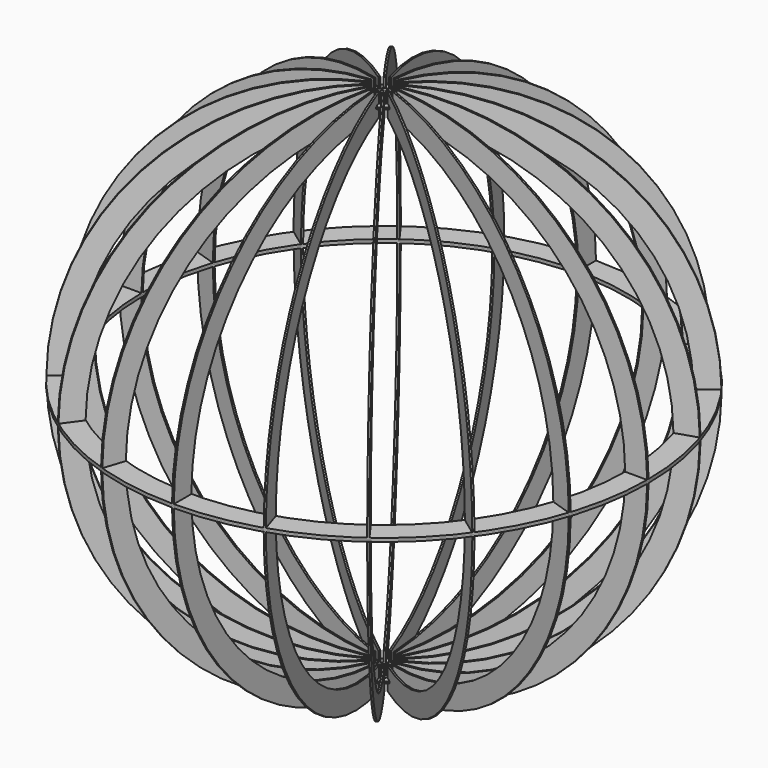
from build123d import *

# Parameters (mm, degrees)
F1_DEPTH = 2
F3_COUNT = 20
F4_R     = 600
F4_W     = 4
F4_H     = 20
F4_W_2   = 20
F4_H_2   = 4
F4_R_2   = 550
F5_DEPTH = 4
F7_DEPTH = 4


with BuildPart() as f1:
    # F0 (on Front) → F1 (new body, symmetric)
    with BuildSketch(Plane.XZ):
        with BuildLine():
            Line((-585, -4), (-599.986667, -4))
            ThreePointArc((-599.986667, -4), (-433.360475, -414.968311), (-30, -599.249531))
            Line((-30, -599.249531), (-30, -577.5))
            Line((-30, -577.5), (-40, -577.5))
            Line((-40, -577.5), (-40, -572.5))
            Line((-40, -572.5), (-30, -572.5))
            Line((-30, -572.5), (-30, -549.181209))
            ThreePointArc((-30, -549.181209), (-397.996758, -379.603188), (-549.985454, -4))
            Line((-549.985454, -4), (-565, -4))
            Line((-565, -4), (-565, -2))
            Line((-565, -2), (-585, -2))
            Line((-585, -2), (-585, -4))
        make_face()
    extrude(amount=F1_DEPTH, both=True)


with BuildPart() as f3_1:
    # F3: instance of F1
    add(f1.part.rotate(Axis((0, 0, -28.792143), (0, 0, 1)), 1 * 360 / F3_COUNT))


with BuildPart() as f3_2:
    # F3: instance of F1
    add(f1.part.rotate(Axis((0, 0, -28.792143), (0, 0, 1)), 2 * 360 / F3_COUNT))


with BuildPart() as f3_3:
    # F3: instance of F1
    add(f1.part.rotate(Axis((0, 0, -28.792143), (0, 0, 1)), 3 * 360 / F3_COUNT))


with BuildPart() as f3_4:
    # F3: instance of F1
    add(f1.part.rotate(Axis((0, 0, -28.792143), (0, 0, 1)), 4 * 360 / F3_COUNT))


with BuildPart() as f3_5:
    # F3: instance of F1
    add(f1.part.rotate(Axis((0, 0, -28.792143), (0, 0, 1)), 5 * 360 / F3_COUNT))


with BuildPart() as f3_6:
    # F3: instance of F1
    add(f1.part.rotate(Axis((0, 0, -28.792143), (0, 0, 1)), 6 * 360 / F3_COUNT))


with BuildPart() as f3_7:
    # F3: instance of F1
    add(f1.part.rotate(Axis((0, 0, -28.792143), (0, 0, 1)), 7 * 360 / F3_COUNT))


with BuildPart() as f3_8:
    # F3: instance of F1
    add(f1.part.rotate(Axis((0, 0, -28.792143), (0, 0, 1)), 8 * 360 / F3_COUNT))


with BuildPart() as f3_9:
    # F3: instance of F1
    add(f1.part.rotate(Axis((0, 0, -28.792143), (0, 0, 1)), 9 * 360 / F3_COUNT))


with BuildPart() as f3_10:
    # F3: instance of F1
    add(f1.part.rotate(Axis((0, 0, -28.792143), (0, 0, 1)), 10 * 360 / F3_COUNT))


with BuildPart() as f3_11:
    # F3: instance of F1
    add(f1.part.rotate(Axis((0, 0, -28.792143), (0, 0, 1)), 11 * 360 / F3_COUNT))


with BuildPart() as f3_12:
    # F3: instance of F1
    add(f1.part.rotate(Axis((0, 0, -28.792143), (0, 0, 1)), 12 * 360 / F3_COUNT))


with BuildPart() as f3_13:
    # F3: instance of F1
    add(f1.part.rotate(Axis((0, 0, -28.792143), (0, 0, 1)), 13 * 360 / F3_COUNT))


with BuildPart() as f3_14:
    # F3: instance of F1
    add(f1.part.rotate(Axis((0, 0, -28.792143), (0, 0, 1)), 14 * 360 / F3_COUNT))


with BuildPart() as f3_15:
    # F3: instance of F1
    add(f1.part.rotate(Axis((0, 0, -28.792143), (0, 0, 1)), 15 * 360 / F3_COUNT))


with BuildPart() as f3_16:
    # F3: instance of F1
    add(f1.part.rotate(Axis((0, 0, -28.792143), (0, 0, 1)), 16 * 360 / F3_COUNT))


with BuildPart() as f3_17:
    # F3: instance of F1
    add(f1.part.rotate(Axis((0, 0, -28.792143), (0, 0, 1)), 17 * 360 / F3_COUNT))


with BuildPart() as f3_18:
    # F3: instance of F1
    add(f1.part.rotate(Axis((0, 0, -28.792143), (0, 0, 1)), 18 * 360 / F3_COUNT))


with BuildPart() as f3_19:
    # F3: instance of F1
    add(f1.part.rotate(Axis((0, 0, -28.792143), (0, 0, 1)), 19 * 360 / F3_COUNT))


with BuildPart() as f5:
    # F4 (on Top) → F5 (new body)
    with BuildSketch(Plane.XY):
        Circle(F4_R)
        Polygon((-345.472407, -472.099371), (-333.716702, -455.919031), (-330.480634, -458.270172), (-342.236339, -474.450512), align=None, mode=Mode.SUBTRACT)
        Polygon((-474.450512, -342.236339), (-458.270172, -330.480634), (-455.919031, -333.716702), (-472.099371, -345.472407), align=None, mode=Mode.SUBTRACT)
        Polygon((-182.677055, -555.750028), (-176.496715, -536.728898), (-172.692489, -537.964966), (-178.872829, -556.986096), align=None, mode=Mode.SUBTRACT)
        Polygon((-556.986096, -178.872829), (-537.964966, -172.692489), (-536.728898, -176.496715), (-555.750028, -182.677055), align=None, mode=Mode.SUBTRACT)
        with Locations((0, -575)):
            Rectangle(F4_W, F4_H, mode=Mode.SUBTRACT)
        Polygon((178.872829, -556.986096), (172.692489, -537.964966), (176.496715, -536.728898), (182.677055, -555.750028), align=None, mode=Mode.SUBTRACT)
        Polygon((342.236339, -474.450512), (330.480634, -458.270172), (333.716702, -455.919031), (345.472407, -472.099371), align=None, mode=Mode.SUBTRACT)
        Polygon((472.099371, -345.472407), (455.919031, -333.716702), (458.270172, -330.480634), (474.450512, -342.236339), align=None, mode=Mode.SUBTRACT)
        Polygon((555.750028, -182.677055), (536.728898, -176.496715), (537.964966, -172.692489), (556.986096, -178.872829), align=None, mode=Mode.SUBTRACT)
        with Locations((-575, 0)):
            Rectangle(F4_W_2, F4_H_2, mode=Mode.SUBTRACT)
        Polygon((-555.750028, 182.677055), (-536.728898, 176.496715), (-537.964966, 172.692489), (-556.986096, 178.872829), align=None, mode=Mode.SUBTRACT)
        Polygon((-472.099371, 345.472407), (-455.919031, 333.716702), (-458.270172, 330.480634), (-474.450512, 342.236339), align=None, mode=Mode.SUBTRACT)
        Polygon((-342.236339, 474.450512), (-330.480634, 458.270172), (-333.716702, 455.919031), (-345.472407, 472.099371), align=None, mode=Mode.SUBTRACT)
        Polygon((-178.872829, 556.986096), (-172.692489, 537.964966), (-176.496715, 536.728898), (-182.677055, 555.750028), align=None, mode=Mode.SUBTRACT)
        Circle(F4_R_2, mode=Mode.SUBTRACT)
        with Locations((575, 0)):
            Rectangle(F4_W_2, F4_H_2, mode=Mode.SUBTRACT)
        Polygon((556.986096, 178.872829), (537.964966, 172.692489), (536.728898, 176.496715), (555.750028, 182.677055), align=None, mode=Mode.SUBTRACT)
        with Locations((0, 575)):
            Rectangle(F4_W, F4_H, mode=Mode.SUBTRACT)
        Polygon((182.677055, 555.750028), (176.496715, 536.728898), (172.692489, 537.964966), (178.872829, 556.986096), align=None, mode=Mode.SUBTRACT)
        Polygon((474.450512, 342.236339), (458.270172, 330.480634), (455.919031, 333.716702), (472.099371, 345.472407), align=None, mode=Mode.SUBTRACT)
        Polygon((345.472407, 472.099371), (333.716702, 455.919031), (330.480634, 458.270172), (342.236339, 474.450512), align=None, mode=Mode.SUBTRACT)
    extrude(amount=-F5_DEPTH)


with BuildPart() as f7:
    # F6 (on face) → F7 (new body)
    with BuildSketch(Plane(origin=(0, 0, -572.5), x_dir=(1, 0, 0), z_dir=(0, 0, -1))):
        Polygon((-33.53625, -21.893376), (-31.185109, -25.129444), (-23.094939, -19.251592), (-24.27051, -17.633558), (-25.44608, -16.015524), align=None)
        with BuildLine():
            Line((-23.094939, -19.251592), (-31.185109, -25.129444))
            Line((-31.185109, -25.129444), (-35.19422, -28.042234))
            ThreePointArc((-35.19422, -28.042234), (-31.819805, -31.819805), (-28.042234, -35.19422))
            Line((-28.042234, -35.19422), (-25.129444, -31.185109))
            Line((-25.129444, -31.185109), (-19.251592, -23.094939))
            Line((-19.251592, -23.094939), (-17.633558, -24.27051))
            ThreePointArc((-17.633558, -24.27051), (-21.213203, -21.213204), (-24.27051, -17.633558))
            Line((-24.27051, -17.633558), (-23.094939, -19.251592))
        make_face()
        with BuildLine():
            Line((-37.545361, -24.806166), (-33.53625, -21.893376))
            Line((-33.53625, -21.893376), (-25.44608, -16.015524))
            Line((-25.44608, -16.015524), (-24.27051, -17.633558))
            ThreePointArc((-24.27051, -17.633558), (-26.730196, -13.619715), (-28.531696, -9.27051))
            Line((-28.531696, -9.27051), (-27.913662, -11.172623))
            Line((-27.913662, -11.172623), (-37.424227, -14.262793))
            Line((-37.424227, -14.262793), (-42.137219, -15.794137))
            ThreePointArc((-42.137219, -15.794137), (-40.095294, -20.429572), (-37.545361, -24.806166))
        make_face()
        Polygon((-27.913662, -11.172623), (-28.531696, -9.27051), (-29.149729, -7.368397), (-38.660295, -10.458567), (-37.424227, -14.262793), align=None)
        with BuildLine():
            Line((-29.149729, -7.368397), (-28.531696, -9.27051))
            ThreePointArc((-28.531696, -9.27051), (-29.63065, -4.693034), (-30, 0))
            Line((-30, 0), (-30, -2))
            Line((-30, -2), (-40, -2))
            Line((-40, -2), (-44.955534, -2))
            ThreePointArc((-44.955534, -2), (-44.445975, -7.039551), (-43.373287, -11.989911))
            Line((-43.373287, -11.989911), (-38.660295, -10.458567))
            Line((-38.660295, -10.458567), (-29.149729, -7.368397))
        make_face()
        Polygon((-16.015524, -25.44608), (-17.633558, -24.27051), (-19.251592, -23.094939), (-25.129444, -31.185109), (-21.893376, -33.53625), align=None)
        with BuildLine():
            ThreePointArc((-9.27051, -28.531695), (-13.619715, -26.730196), (-17.633558, -24.27051))
            Line((-17.633558, -24.27051), (-16.015524, -25.44608))
            Line((-16.015524, -25.44608), (-21.893376, -33.53625))
            Line((-21.893376, -33.53625), (-24.806166, -37.545361))
            ThreePointArc((-24.806166, -37.545361), (-20.429572, -40.095294), (-15.794137, -42.137219))
            Line((-15.794137, -42.137219), (-14.262793, -37.424227))
            Line((-14.262793, -37.424227), (-11.172623, -27.913662))
            Line((-11.172623, -27.913662), (-9.27051, -28.531695))
        make_face()
        Polygon((-30, -2), (-30, 0), (-30, 2), (-40, 2), (-40, -2), align=None)
        with BuildLine():
            Line((-30, 2), (-30, 0))
            ThreePointArc((-30, 0), (-29.63065, 4.693034), (-28.531696, 9.27051))
            Line((-28.531696, 9.27051), (-29.149729, 7.368397))
            Line((-29.149729, 7.368397), (-38.660295, 10.458567))
            Line((-38.660295, 10.458567), (-43.373287, 11.989911))
            ThreePointArc((-43.373287, 11.989911), (-44.445975, 7.039551), (-44.955534, 2))
            Line((-44.955534, 2), (-40, 2))
            Line((-40, 2), (-30, 2))
        make_face()
        with BuildLine():
            ThreePointArc((0, -30), (-4.693034, -29.63065), (-9.27051, -28.531695))
            Line((-9.27051, -28.531695), (-7.368397, -29.149729))
            Line((-7.368397, -29.149729), (-10.458567, -38.660295))
            Line((-10.458567, -38.660295), (-11.989911, -43.373287))
            ThreePointArc((-11.989911, -43.373287), (-7.039551, -44.445975), (-2, -44.955534))
            Line((-2, -44.955534), (-2, -40))
            Line((-2, -40), (-2, -30))
            Line((-2, -30), (0, -30))
        make_face()
        Polygon((-7.368397, -29.149729), (-9.27051, -28.531695), (-11.172623, -27.913662), (-14.262793, -37.424227), (-10.458567, -38.660295), align=None)
        Polygon((-29.149729, 7.368397), (-28.531696, 9.27051), (-27.913662, 11.172623), (-37.424227, 14.262793), (-38.660295, 10.458567), align=None)
        with BuildLine():
            Line((-27.913662, 11.172623), (-28.531696, 9.27051))
            ThreePointArc((-28.531696, 9.27051), (-26.730196, 13.619714), (-24.270511, 17.633557))
            Line((-24.270511, 17.633557), (-25.44608, 16.015524))
            Line((-25.44608, 16.015524), (-33.53625, 21.893376))
            Line((-33.53625, 21.893376), (-37.545361, 24.806166))
            ThreePointArc((-37.545361, 24.806166), (-40.095294, 20.429572), (-42.137219, 15.794137))
            Line((-42.137219, 15.794137), (-37.424227, 14.262793))
            Line((-37.424227, 14.262793), (-27.913662, 11.172623))
        make_face()
        with BuildLine():
            ThreePointArc((9.27051, -28.531696), (4.693034, -29.63065), (0, -30))
            Line((0, -30), (2, -30))
            Line((2, -30), (2, -40))
            Line((2, -40), (2, -44.955534))
            ThreePointArc((2, -44.955534), (7.039551, -44.445975), (11.989911, -43.373287))
            Line((11.989911, -43.373287), (10.458567, -38.660295))
            Line((10.458567, -38.660295), (7.368397, -29.149729))
            Line((7.368397, -29.149729), (9.27051, -28.531696))
        make_face()
        Polygon((2, -30), (0, -30), (-2, -30), (-2, -40), (2, -40), align=None)
        Polygon((-25.44608, 16.015524), (-24.270511, 17.633557), (-23.094939, 19.251592), (-31.185109, 25.129444), (-33.53625, 21.893376), align=None)
        with BuildLine():
            Line((-23.094939, 19.251592), (-24.270511, 17.633557))
            ThreePointArc((-24.270511, 17.633557), (-21.213203, 21.213204), (-17.633556, 24.270511))
            Line((-17.633556, 24.270511), (-19.251592, 23.094939))
            Line((-19.251592, 23.094939), (-25.129444, 31.185109))
            Line((-25.129444, 31.185109), (-28.042234, 35.19422))
            ThreePointArc((-28.042234, 35.19422), (-31.819805, 31.819805), (-35.19422, 28.042234))
            Line((-35.19422, 28.042234), (-31.185109, 25.129444))
            Line((-31.185109, 25.129444), (-23.094939, 19.251592))
        make_face()
        with BuildLine():
            ThreePointArc((17.633558, -24.27051), (13.619715, -26.730196), (9.27051, -28.531696))
            Line((9.27051, -28.531696), (11.172623, -27.913662))
            Line((11.172623, -27.913662), (14.262793, -37.424227))
            Line((14.262793, -37.424227), (15.794137, -42.137219))
            ThreePointArc((15.794137, -42.137219), (20.429572, -40.095294), (24.806166, -37.545361))
            Line((24.806166, -37.545361), (21.893376, -33.53625))
            Line((21.893376, -33.53625), (16.015524, -25.44608))
            Line((16.015524, -25.44608), (17.633558, -24.27051))
        make_face()
        Polygon((11.172623, -27.913662), (9.27051, -28.531696), (7.368397, -29.149729), (10.458567, -38.660295), (14.262793, -37.424227), align=None)
        Polygon((-19.251592, 23.094939), (-17.633556, 24.270511), (-16.015524, 25.44608), (-21.893376, 33.53625), (-25.129444, 31.185109), align=None)
        with BuildLine():
            Line((-16.015524, 25.44608), (-17.633556, 24.270511))
            ThreePointArc((-17.633556, 24.270511), (-13.619715, 26.730196), (-9.270512, 28.531695))
            Line((-9.270512, 28.531695), (-11.172623, 27.913662))
            Line((-11.172623, 27.913662), (-14.262793, 37.424227))
            Line((-14.262793, 37.424227), (-15.794137, 42.137219))
            ThreePointArc((-15.794137, 42.137219), (-20.429572, 40.095294), (-24.806166, 37.545361))
            Line((-24.806166, 37.545361), (-21.893376, 33.53625))
            Line((-21.893376, 33.53625), (-16.015524, 25.44608))
        make_face()
        with BuildLine():
            ThreePointArc((24.270511, -17.633557), (21.213204, -21.213203), (17.633558, -24.27051))
            Line((17.633558, -24.27051), (19.251592, -23.094939))
            Line((19.251592, -23.094939), (25.129444, -31.185109))
            Line((25.129444, -31.185109), (28.042234, -35.19422))
            ThreePointArc((28.042234, -35.19422), (31.819805, -31.819805), (35.19422, -28.042234))
            Line((35.19422, -28.042234), (31.185109, -25.129444))
            Line((31.185109, -25.129444), (23.094939, -19.251592))
            Line((23.094939, -19.251592), (24.270511, -17.633557))
        make_face()
        Polygon((19.251592, -23.094939), (17.633558, -24.27051), (16.015524, -25.44608), (21.893376, -33.53625), (25.129444, -31.185109), align=None)
        Polygon((-11.172623, 27.913662), (-9.270512, 28.531695), (-7.368397, 29.149729), (-10.458567, 38.660295), (-14.262793, 37.424227), align=None)
        with BuildLine():
            Line((-7.368397, 29.149729), (-9.270512, 28.531695))
            ThreePointArc((-9.270512, 28.531695), (-4.693035, 29.63065), (0, 30))
            Line((0, 30), (-2, 30))
            Line((-2, 30), (-2, 40))
            Line((-2, 40), (-2, 44.955534))
            ThreePointArc((-2, 44.955534), (-7.039551, 44.445975), (-11.989911, 43.373287))
            Line((-11.989911, 43.373287), (-10.458567, 38.660295))
            Line((-10.458567, 38.660295), (-7.368397, 29.149729))
        make_face()
        with BuildLine():
            ThreePointArc((28.531695, -9.270512), (26.730196, -13.619715), (24.270511, -17.633557))
            Line((24.270511, -17.633557), (25.44608, -16.015524))
            Line((25.44608, -16.015524), (33.53625, -21.893376))
            Line((33.53625, -21.893376), (37.545361, -24.806166))
            ThreePointArc((37.545361, -24.806166), (40.095294, -20.429572), (42.137219, -15.794137))
            Line((42.137219, -15.794137), (37.424227, -14.262793))
            Line((37.424227, -14.262793), (27.913662, -11.172623))
            Line((27.913662, -11.172623), (28.531695, -9.270512))
        make_face()
        Polygon((25.44608, -16.015524), (24.270511, -17.633557), (23.094939, -19.251592), (31.185109, -25.129444), (33.53625, -21.893376), align=None)
        Polygon((-2, 30), (0, 30), (2, 30), (2, 40), (-2, 40), align=None)
        with BuildLine():
            Line((2, 30), (0, 30))
            ThreePointArc((0, 30), (4.693035, 29.63065), (9.270513, 28.531695))
            Line((9.270513, 28.531695), (7.368397, 29.149729))
            Line((7.368397, 29.149729), (10.458567, 38.660295))
            Line((10.458567, 38.660295), (11.989911, 43.373287))
            ThreePointArc((11.989911, 43.373287), (7.039551, 44.445975), (2, 44.955534))
            Line((2, 44.955534), (2, 40))
            Line((2, 40), (2, 30))
        make_face()
        with BuildLine():
            ThreePointArc((30, 0), (29.63065, -4.693035), (28.531695, -9.270512))
            Line((28.531695, -9.270512), (29.149729, -7.368397))
            Line((29.149729, -7.368397), (38.660295, -10.458567))
            Line((38.660295, -10.458567), (43.373287, -11.989911))
            ThreePointArc((43.373287, -11.989911), (44.445975, -7.039551), (44.955534, -2))
            Line((44.955534, -2), (40, -2))
            Line((40, -2), (30, -2))
            Line((30, -2), (30, 0))
        make_face()
        Polygon((29.149729, -7.368397), (28.531695, -9.270512), (27.913662, -11.172623), (37.424227, -14.262793), (38.660295, -10.458567), align=None)
        Polygon((7.368397, 29.149729), (9.270513, 28.531695), (11.172623, 27.913662), (14.262793, 37.424227), (10.458567, 38.660295), align=None)
        with BuildLine():
            Line((11.172623, 27.913662), (9.270513, 28.531695))
            ThreePointArc((9.270513, 28.531695), (13.619718, 26.730194), (17.63356, 24.270508))
            Line((17.63356, 24.270508), (16.015524, 25.44608))
            Line((16.015524, 25.44608), (21.893376, 33.53625))
            Line((21.893376, 33.53625), (24.806166, 37.545361))
            ThreePointArc((24.806166, 37.545361), (20.429572, 40.095294), (15.794137, 42.137219))
            Line((15.794137, 42.137219), (14.262793, 37.424227))
            Line((14.262793, 37.424227), (11.172623, 27.913662))
        make_face()
        with BuildLine():
            ThreePointArc((28.531695, 9.270513), (29.63065, 4.693035), (30, 0))
            Line((30, 0), (30, 2))
            Line((30, 2), (40, 2))
            Line((40, 2), (44.955534, 2))
            ThreePointArc((44.955534, 2), (44.445975, 7.039551), (43.373287, 11.989911))
            Line((43.373287, 11.989911), (38.660295, 10.458567))
            Line((38.660295, 10.458567), (29.149729, 7.368397))
            Line((29.149729, 7.368397), (28.531695, 9.270513))
        make_face()
        Polygon((30, 2), (30, 0), (30, -2), (40, -2), (40, 2), align=None)
        Polygon((16.015524, 25.44608), (17.63356, 24.270508), (19.251592, 23.094939), (25.129444, 31.185109), (21.893376, 33.53625), align=None)
        with BuildLine():
            Line((19.251592, 23.094939), (17.63356, 24.270508))
            ThreePointArc((17.63356, 24.270508), (21.213203, 21.213203), (24.270508, 17.63356))
            Line((24.270508, 17.63356), (23.094939, 19.251592))
            Line((23.094939, 19.251592), (31.185109, 25.129444))
            Line((31.185109, 25.129444), (35.19422, 28.042234))
            ThreePointArc((35.19422, 28.042234), (31.819805, 31.819805), (28.042234, 35.19422))
            Line((28.042234, 35.19422), (25.129444, 31.185109))
            Line((25.129444, 31.185109), (19.251592, 23.094939))
        make_face()
        with BuildLine():
            ThreePointArc((24.270508, 17.63356), (26.730194, 13.619718), (28.531695, 9.270513))
            Line((28.531695, 9.270513), (27.913662, 11.172623))
            Line((27.913662, 11.172623), (37.424227, 14.262793))
            Line((37.424227, 14.262793), (42.137219, 15.794137))
            ThreePointArc((42.137219, 15.794137), (40.095294, 20.429572), (37.545361, 24.806166))
            Line((37.545361, 24.806166), (33.53625, 21.893376))
            Line((33.53625, 21.893376), (25.44608, 16.015524))
            Line((25.44608, 16.015524), (24.270508, 17.63356))
        make_face()
        Polygon((27.913662, 11.172623), (28.531695, 9.270513), (29.149729, 7.368397), (38.660295, 10.458567), (37.424227, 14.262793), align=None)
        Polygon((23.094939, 19.251592), (24.270508, 17.63356), (25.44608, 16.015524), (33.53625, 21.893376), (31.185109, 25.129444), align=None)
    extrude(amount=F7_DEPTH)


with BuildPart() as f8_1:
    # F8: instance of F3_9
    add(f3_9.part.mirror(Plane.XY))


with BuildPart() as f8_2:
    # F8: instance of F5
    add(f5.part.mirror(Plane.XY))


with BuildPart() as f8_3:
    # F8: instance of F3_15
    add(f3_15.part.mirror(Plane.XY))


with BuildPart() as f8_4:
    # F8: instance of F3_17
    add(f3_17.part.mirror(Plane.XY))


with BuildPart() as f8_5:
    # F8: instance of F3_11
    add(f3_11.part.mirror(Plane.XY))


with BuildPart() as f8_6:
    # F8: instance of F3_2
    add(f3_2.part.mirror(Plane.XY))


with BuildPart() as f8_7:
    # F8: instance of F3_19
    add(f3_19.part.mirror(Plane.XY))


with BuildPart() as f8_8:
    # F8: instance of F3_14
    add(f3_14.part.mirror(Plane.XY))


with BuildPart() as f8_9:
    # F8: instance of F3_3
    add(f3_3.part.mirror(Plane.XY))


with BuildPart() as f8_10:
    # F8: instance of F3_10
    add(f3_10.part.mirror(Plane.XY))


with BuildPart() as f8_11:
    # F8: instance of F7
    add(f7.part.mirror(Plane.XY))


with BuildPart() as f8_12:
    # F8: instance of F3_7
    add(f3_7.part.mirror(Plane.XY))


with BuildPart() as f8_13:
    # F8: instance of F3_8
    add(f3_8.part.mirror(Plane.XY))


with BuildPart() as f8_14:
    # F8: instance of F3_6
    add(f3_6.part.mirror(Plane.XY))


with BuildPart() as f8_15:
    # F8: instance of F3_5
    add(f3_5.part.mirror(Plane.XY))


with BuildPart() as f8_16:
    # F8: instance of F3_13
    add(f3_13.part.mirror(Plane.XY))


with BuildPart() as f8_17:
    # F8: instance of F3_16
    add(f3_16.part.mirror(Plane.XY))


with BuildPart() as f8_18:
    # F8: instance of F3_12
    add(f3_12.part.mirror(Plane.XY))


with BuildPart() as f8_19:
    # F8: instance of F3_4
    add(f3_4.part.mirror(Plane.XY))


with BuildPart() as f8_20:
    # F8: instance of F3_18
    add(f3_18.part.mirror(Plane.XY))


with BuildPart() as f8_21:
    # F8: instance of F3_1
    add(f3_1.part.mirror(Plane.XY))


with BuildPart() as f8_22:
    # F8: instance of F1
    add(f1.part.mirror(Plane.XY))


solid = Compound([f1.part, f3_1.part, f3_2.part, f3_3.part, f3_4.part, f3_5.part, f3_6.part, f3_7.part, f3_8.part, f3_9.part, f3_10.part, f3_11.part, f3_12.part, f3_13.part, f3_14.part, f3_15.part, f3_16.part, f3_17.part, f3_18.part, f3_19.part, f5.part, f7.part, f8_1.part, f8_2.part, f8_3.part, f8_4.part, f8_5.part, f8_6.part, f8_7.part, f8_8.part, f8_9.part, f8_10.part, f8_11.part, f8_12.part, f8_13.part, f8_14.part, f8_15.part, f8_16.part, f8_17.part, f8_18.part, f8_19.part, f8_20.part, f8_21.part, f8_22.part])
